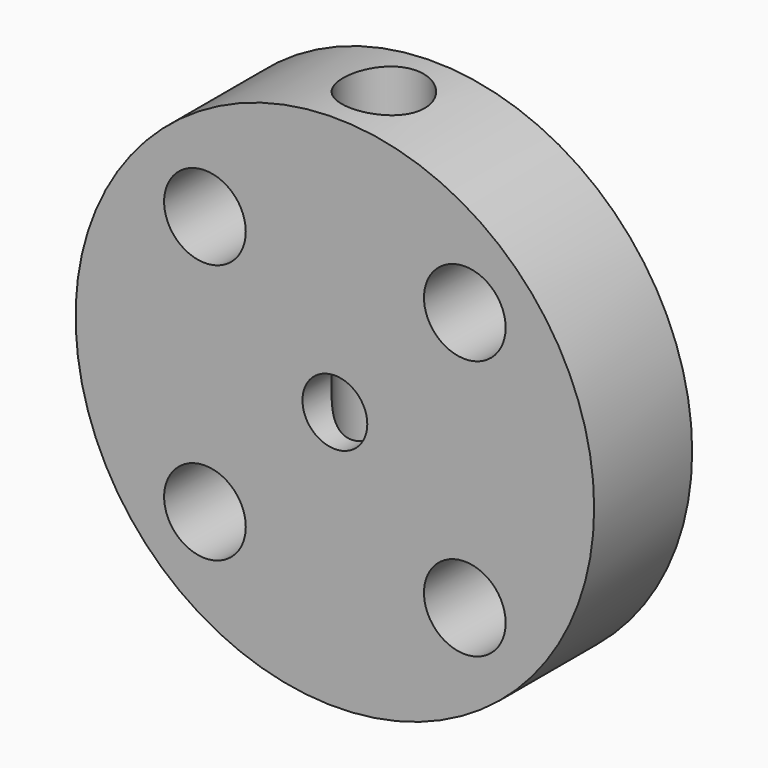
from build123d import *

# Parameters (mm, degrees)
F0_R          = 12.7
F0_R_2        = 2
F0_R_3        = 1.5875
F1_DEPTH      = 6
F2_R          = 2
F3_DEPTH      = 12.701
F3_DEPTH_BACK = 12.701


with BuildPart() as f1:
    # F0 (on Front) → F1 (new body)
    with BuildSketch(Plane.XZ):
        Circle(F0_R)
        with Locations((-6.3639610307, -6.3639610307)):
            Circle(F0_R_2, mode=Mode.SUBTRACT)
        Circle(F0_R_3, mode=Mode.SUBTRACT)
        with Locations((6.3639610307, -6.3639610307)):
            Circle(F0_R_2, mode=Mode.SUBTRACT)
        with Locations((-6.3639610307, 6.3639610307)):
            Circle(F0_R_2, mode=Mode.SUBTRACT)
        with Locations((6.3639610307, 6.3639610307)):
            Circle(F0_R_2, mode=Mode.SUBTRACT)
    extrude(amount=F1_DEPTH)

    # F2 (on Top) → F3 (cut, two sides)
    with BuildSketch(Plane.XY) as f3_sk:
        with Locations((0, -3)):
            Circle(F2_R)
    extrude(amount=-F3_DEPTH, mode=Mode.SUBTRACT)
    extrude(f3_sk.sketch, amount=F3_DEPTH_BACK, mode=Mode.SUBTRACT)


solid = f1.part
